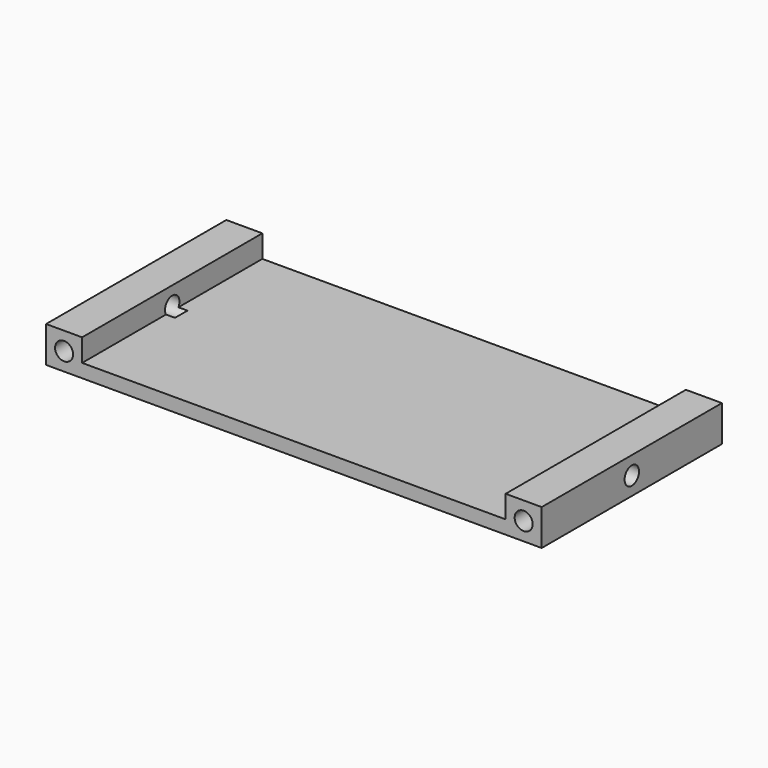
from build123d import *

# Parameters (mm, degrees)
SKETCH_W        = 110
SKETCH_H        = 50
PAD_DEPTH       = 3
SKETCH001_W     = 8
SKETCH001_H     = 50
PAD001_DEPTH    = 5
SKETCH002_R     = 2
POCKET_DEPTH    = 10
SKETCH003_R     = 2
POCKET001_DEPTH = 10
SKETCH004_R     = 2
POCKET002_DEPTH = 10
SKETCH005_R     = 2
POCKET003_DEPTH = 10


with BuildPart() as part:
    # Sketch → Pad (new body)
    with BuildSketch(Plane.XY):
        Rectangle(SKETCH_W, SKETCH_H)
    extrude(amount=PAD_DEPTH)

    # Sketch001 (on Face6 of Pad) → Pad001 (join)
    with BuildSketch(Plane.XY.offset(3)):
        with Locations((51, 0)):
            Rectangle(SKETCH001_W, SKETCH001_H)
        with Locations((-51, 0)):
            Rectangle(SKETCH001_W, SKETCH001_H)
    extrude(amount=PAD001_DEPTH)

    # Sketch002 (on Face5 of Pad001) → Pocket (cut)
    with BuildSketch(Plane(origin=(0, 25, 0), x_dir=(-1, 0, 0), z_dir=(0, 1, 0))):
        with Locations((51, 4)):
            Circle(SKETCH002_R)
        with Locations((-51, 4)):
            Circle(SKETCH002_R)
    extrude(amount=-POCKET_DEPTH, mode=Mode.SUBTRACT)

    # Sketch003 (on Face20 of Pocket) → Pocket001 (cut)
    with BuildSketch(Plane.XZ.offset(25)):
        with Locations((-51, 4)):
            Circle(SKETCH003_R)
        with Locations((51, 4)):
            Circle(SKETCH003_R)
    extrude(amount=-POCKET001_DEPTH, mode=Mode.SUBTRACT)

    # Sketch004 (on Face17 of Pocket001) → Pocket002 (cut)
    with BuildSketch(Plane(origin=(-55, 0, 0), x_dir=(0, -1, 0), z_dir=(-1, 0, 0))):
        with Locations((0, 4)):
            Circle(SKETCH004_R)
    extrude(amount=-POCKET002_DEPTH, mode=Mode.SUBTRACT)

    # Sketch005 (on Face11 of Pocket002) → Pocket003 (cut)
    with BuildSketch(Plane.YZ.offset(55)):
        with Locations((0, 4)):
            Circle(SKETCH005_R)
    extrude(amount=-POCKET003_DEPTH, mode=Mode.SUBTRACT)


solid = part.part
